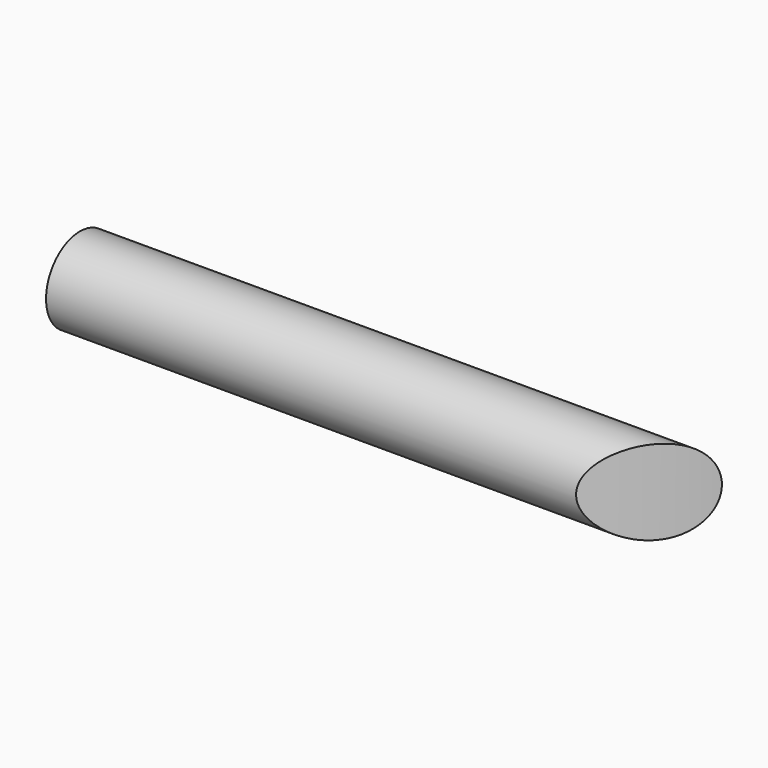
from build123d import *

# Parameters (mm, degrees)
F0_R     = 1.5875
F1_DEPTH = 12.7
F2_W     = 4.18922
F2_H     = 3.175
F3_DEPTH = 1.5875
F4_W     = 3.647596
F4_H     = 5.093468
F4_H_2   = 3.670235
F5_DEPTH = 25.4


with BuildPart() as f1:
    # F0 (on Right) → F1 (new body, symmetric)
    with BuildSketch(Plane.YZ):
        Circle(F0_R)
    extrude(amount=F1_DEPTH, both=True)

    # F2 (on face) → F3 (join)
    with BuildSketch(Plane(origin=(-12.7, 0, 0), x_dir=(0, -1, 0), z_dir=(-1, 0, 0))):
        with Locations((-2.09461, 0)):
            Rectangle(F2_W, F2_H)
    extrude(amount=F3_DEPTH)

    # F4 (on face) → F5 (cut)
    with BuildSketch(Plane.XY.offset(1.5875)):
        with BuildLine():
            ThreePointArc((10.658555, 1.5875), (9.327825, -0.125735), (7.724933, -1.5875))
            Line((7.724933, -1.5875), (12.7, -1.5875))
            Line((12.7, -1.5875), (12.7, 1.5875))
            Line((12.7, 1.5875), (10.658555, 1.5875))
        make_face()
        with Locations((-13.995515, -0.959234)):
            Rectangle(F4_W, F4_H)
        with Locations((-13.995515, 3.422617)):
            Rectangle(F4_W, F4_H_2)
    extrude(amount=-F5_DEPTH, mode=Mode.SUBTRACT)


solid = f1.part
